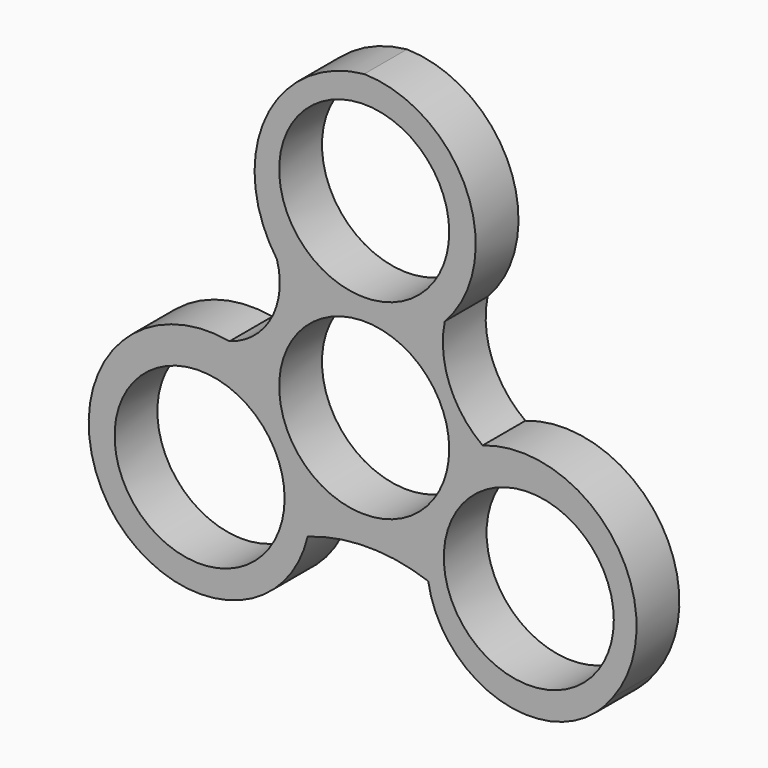
from build123d import *

# Parameters (mm, degrees)
F0_R     = 11.125
F1_DEPTH = 7


with BuildPart() as f1:
    # F0 (on Front) → F1 (new body)
    with BuildSketch(Plane.XZ):
        with BuildLine():
            ThreePointArc((-11.425942, 27.229862), (-12.149095, 20.2237), (-17.614547, 15.780944))
            ThreePointArc((-17.614547, 15.780944), (-33.50268, 8.942403), (-33.395492, -8.354617))
            ThreePointArc((-33.395492, -8.354617), (-18.787986, -14.339204), (-7.403348, -3.403733))
            ThreePointArc((-7.403348, -3.403733), (0.487123, -2.044763), (8.377595, -3.403733))
            ThreePointArc((8.377595, -3.403733), (18.572382, -14.304901), (32.513153, -8.973477))
            ThreePointArc((32.513153, -8.973477), (32.772871, 9.130893), (15.494492, 14.543222))
            ThreePointArc((15.494492, 14.543222), (11.160472, 20.161243), (10.543607, 27.229862))
            ThreePointArc((10.543607, 27.229862), (13.432728, 43.194843), (0, 52.293714))
            ThreePointArc((0, 52.293714), (-12.910225, 43.042824), (-11.425942, 27.229862))
        make_face()
        with Locations((-21.5418, 0)):
            Circle(F0_R, mode=Mode.SUBTRACT)
        with Locations((21.5418, 0)):
            Circle(F0_R, mode=Mode.SUBTRACT)
        with Locations((0, 12.686641)):
            Circle(F0_R, mode=Mode.SUBTRACT)
        with Locations((0, 37.686641)):
            Circle(F0_R, mode=Mode.SUBTRACT)
    extrude(amount=F1_DEPTH)


solid = f1.part
